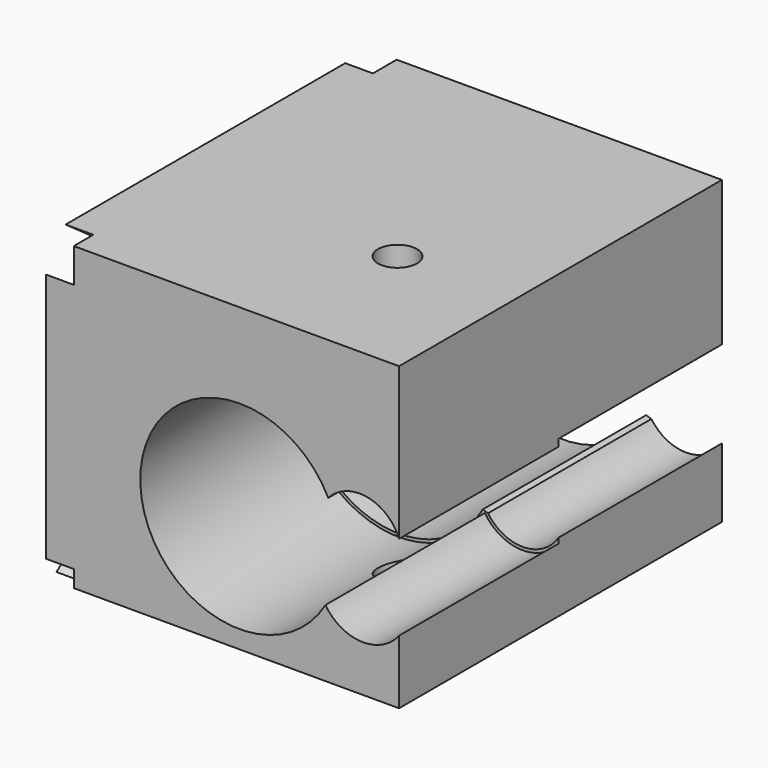
from build123d import *

# Parameters (mm, degrees)
F0_W      = 54
F0_H      = 67
F0_R      = 3.2350840479
F1_DEPTH  = 50
F3_D      = 33
F3_DEPTH  = 33.0871826465
F4_D      = 32
F5_D      = 14
F5_DEPTH  = 33.0871827465
F6_D      = 14
F6_DEPTH  = 33.9148173535
F7_D      = 14
F7_DEPTH  = 33.0871827465
F8_D      = 15
F8_DEPTH  = 33.0871827465
F9_D      = 15
F10_D     = 15
F10_DEPTH = 33.9148173535
F12_DEPTH = 4.6


with BuildPart() as f1:
    # F0 (on Top) → F1 (new body)
    with BuildSketch(Plane.XY):
        with Locations((-9.3474117796, 0.4138173535)):
            Rectangle(F0_W, F0_H)
        with Locations((-1.7809633864, -9.1149061918)):
            Circle(F0_R, mode=Mode.SUBTRACT)
    extrude(amount=F1_DEPTH)

    # F3 (through all, one way)
    with BuildSketch(Plane(origin=(0, 0, 0), x_dir=(1, 0, 0), z_dir=(0, 1, 0))):
        with Locations((-8.8084321469, -19.4574296474)):
            Circle(F3_D / 2)
    extrude(amount=-F3_DEPTH, mode=Mode.SUBTRACT)

    # F4 (through all)
    with Locations(Plane.XZ):
        with Locations((-8.8084321469, 19.4574296474)):
            Hole(F4_D / 2)

    # F5 (through all, one way)
    with BuildSketch(Plane(origin=(0, 0, 0), x_dir=(1, 0, 0), z_dir=(0, 1, 0))):
        with Locations((11.1167700961, -22.2662836313)):
            Circle(F5_D / 2)
    extrude(amount=-F5_DEPTH, mode=Mode.SUBTRACT)

    # F6 (through all, one way)
    with BuildSketch(Plane.XZ):
        with Locations((11.7215663195, 15.209428966)):
            Circle(F6_D / 2)
    extrude(amount=-F6_DEPTH, mode=Mode.SUBTRACT)

    # F7 (through all, one way)
    with BuildSketch(Plane(origin=(0, 0, 0), x_dir=(1, 0, 0), z_dir=(0, 1, 0))):
        with Locations((7.8991507475, -18.4924459839)):
            Circle(F7_D / 2)
    extrude(amount=-F7_DEPTH, mode=Mode.SUBTRACT)

    # F8 (through all, one way)
    with BuildSketch(Plane(origin=(0, 0, 0), x_dir=(1, 0, 0), z_dir=(0, 1, 0))):
        with Locations((11.7215663195, -15.209428966)):
            Circle(F8_D / 2)
    extrude(amount=-F8_DEPTH, mode=Mode.SUBTRACT)

    # F9 (through all)
    with Locations(Plane.XZ):
        with Locations((7.8991507475, 18.4924459839)):
            Hole(F9_D / 2)

    # F10 (through all, one way)
    with BuildSketch(Plane.XZ):
        with Locations((11.1167700961, 22.2662836313)):
            Circle(F10_D / 2)
    extrude(amount=-F10_DEPTH, mode=Mode.SUBTRACT)

    # F11 (on face) → F12 (join)
    with BuildSketch(Plane(origin=(-36.3474117796, 0, 0), x_dir=(0, -1, 0), z_dir=(-1, 0, 0))):
        Polygon((-28.9854729855, 50), (-0.8816519102, 28.6277458975), (29.0403384715, 50), align=None)
        Polygon((-33.9138173535, 44.3356601551), (-33.9138173535, 5.0340001471), (-5.7946280701, 25.1185750987), align=None)
        Polygon((33.0861826465, 44.3356601551), (4.9187896518, 24.2166549416), (33.0861826465, 2.7960559819), align=None)
        Polygon((0.3256148099, 20.935907284), (-28.9854729855, 0), (30.959851897, 0), align=None)
    extrude(amount=F12_DEPTH)


solid = f1.part
